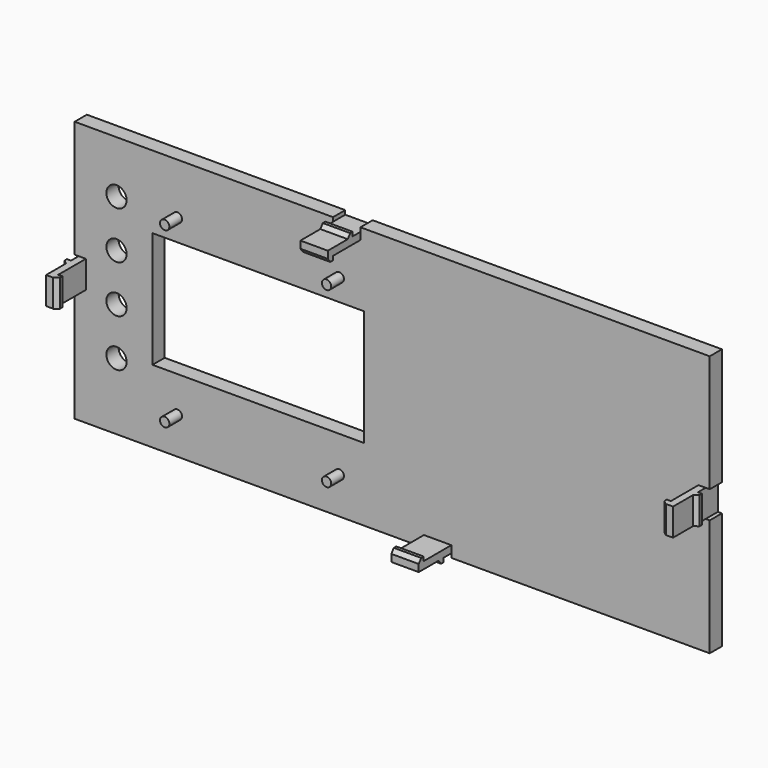
from build123d import *

# Parameters (mm, degrees)
F0_R      = 0.75
F0_R_2    = 1.625
F0_W      = 34
F0_H      = 18.62
F1_DEPTH  = 2.45
F0_W_2    = 4.4
F0_H_2    = 1.15
F0_W_3    = 1.15
F0_H_3    = 4.4
F2_DEPTH  = 8
F3_DEPTH  = 5
F4_DEPTH  = 5
F5_DEPTH  = 5
F10_DEPTH = 4.4
F11_DEPTH = 4.4
F12_DEPTH = 4.4
F13_DEPTH = 4.4


with BuildPart() as f1:
    # F0 (on Front) → F1 (new body)
    with BuildSketch(Plane.XZ):
        Polygon((-9.5, 21), (-51, 21), (-51, 2.2), (-50.35, 2.2), (-49.2, 2.2), (-49.2, -2.2), (-50.35, -2.2), (-51, -2.2), (-51, -21), (5.1, -21), (5.1, -20.35), (5.1, -19.2), (9.5, -19.2), (9.5, -20.35), (9.5, -21), (51, -21), (51, -2.2), (50.35, -2.2), (49.2, -2.2), (49.2, 2.2), (50.35, 2.2), (51, 2.2), (51, 21), (-5.1, 21), (-5.1, 20.35), (-5.1, 19.2), (-9.5, 19.2), (-9.5, 20.35), align=None)
        with Locations((-34.5, -15.06)):
            Circle(F0_R, mode=Mode.SUBTRACT)
        with Locations((-8.5, -15.06)):
            Circle(F0_R, mode=Mode.SUBTRACT)
        with Locations((-44.28, -10.26)):
            Circle(F0_R_2, mode=Mode.SUBTRACT)
        with Locations((-44.28, -2.64)):
            Circle(F0_R_2, mode=Mode.SUBTRACT)
        with Locations((-44.28, 4.98)):
            Circle(F0_R_2, mode=Mode.SUBTRACT)
        with Locations((-21.5, 0)):
            Rectangle(F0_W, F0_H, mode=Mode.SUBTRACT)
        with Locations((-44.28, 12.6)):
            Circle(F0_R_2, mode=Mode.SUBTRACT)
        with Locations((-34.5, 12.81)):
            Circle(F0_R, mode=Mode.SUBTRACT)
        with Locations((-8.5, 12.81)):
            Circle(F0_R, mode=Mode.SUBTRACT)
    extrude(amount=F1_DEPTH)

    # F0 (on Front) → F3 (join)
    with BuildSketch(Plane.XZ):
        with Locations((-34.5, 12.81)):
            Circle(F0_R)
    extrude(amount=F3_DEPTH)


with BuildPart() as f2:
    # F0 (on Front) → F2 (new body)
    with BuildSketch(Plane.XZ):
        with Locations((-7.3, 19.775)):
            Rectangle(F0_W_2, F0_H_2)
        with Locations((-49.775, 0)):
            Rectangle(F0_W_3, F0_H_3)
        with Locations((49.775, 0)):
            Rectangle(F0_W_3, F0_H_3)
        with Locations((7.3, -19.775)):
            Rectangle(F0_W_2, F0_H_2)
    extrude(amount=F2_DEPTH)

    # F9 (on face) → F10 (join)
    with BuildSketch(Plane.XY.offset(2.2)):
        Polygon((50.35, -9), (50.35, -8), (49.2, -8), (48.55, -8), (48.55, -8.5), (49.2, -9), align=None)
        Polygon((51, -4), (50.35, -4), (50.35, -5), (51, -4.5), align=None)
    extrude(amount=-F10_DEPTH)

    # F8 (on face) → F11 (join)
    with BuildSketch(Plane.YZ.offset(9.5)):
        Polygon((-9, -20.35), (-8, -20.35), (-8, -19.2), (-8, -18.55), (-8.5, -18.55), (-9, -19.2), align=None)
        Polygon((-4, -21), (-4, -20.35), (-5, -20.35), (-4.5, -21), align=None)
    extrude(amount=-F11_DEPTH)

    # F7 (on face) → F12 (join)
    with BuildSketch(Plane(origin=(0, 0, -2.2), x_dir=(1, 0, 0), z_dir=(0, 0, -1))):
        Polygon((-50.35, 9), (-50.35, 8), (-49.2, 8), (-48.55, 8), (-48.55, 8.5), (-49.2, 9), align=None)
        Polygon((-51, 4), (-50.35, 4), (-50.35, 5), (-51, 4.5), align=None)
    extrude(amount=-F12_DEPTH)

    # F6 (on face) → F13 (join)
    with BuildSketch(Plane(origin=(-9.5, 0, 0), x_dir=(0, -1, 0), z_dir=(-1, 0, 0))):
        Polygon((9, 20.35), (8, 20.35), (8, 19.2), (8, 18.55), (8.5, 18.55), (9, 19.2), align=None)
        Polygon((4, 21), (4, 20.35), (5, 20.35), (4.5, 21), align=None)
    extrude(amount=-F13_DEPTH)


with BuildPart() as f4:
    # F0 (on Front) → F4 (new body)
    with BuildSketch(Plane.XZ):
        with Locations((-8.5, 12.81)):
            Circle(F0_R)
    extrude(amount=F4_DEPTH)


with BuildPart() as f5:
    # F0 (on Front) → F5 (new body)
    with BuildSketch(Plane.XZ):
        with Locations((-34.5, -15.06)):
            Circle(F0_R)
        with Locations((-8.5, -15.06)):
            Circle(F0_R)
    extrude(amount=F5_DEPTH)


solid = Compound([f1.part, f2.part, f4.part, f5.part])
